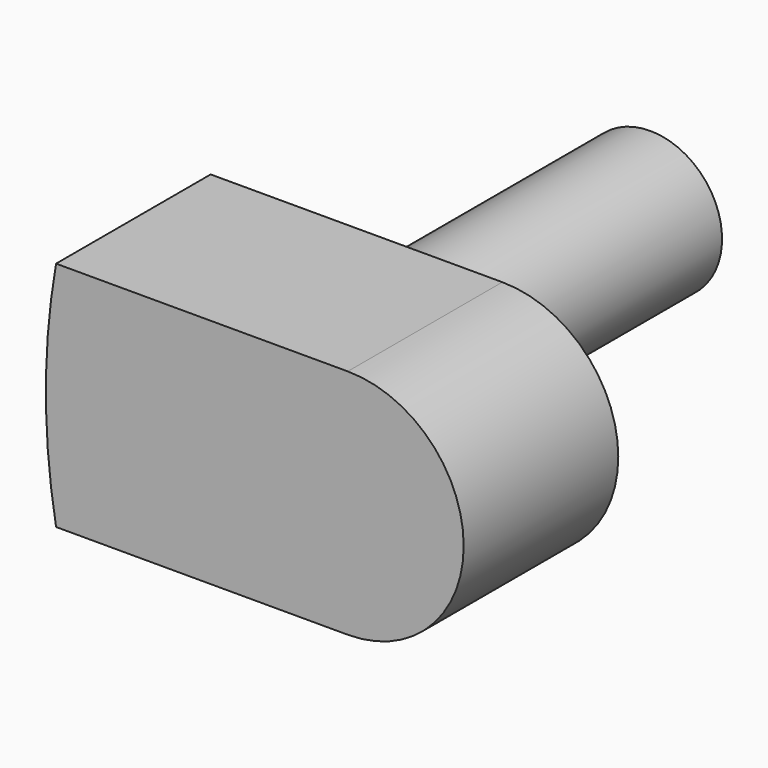
from build123d import *

# Parameters (mm, degrees)
F1_DEPTH = 8
F2_R     = 2.975
F3_DEPTH = 14


with BuildPart() as f1:
    # F0 (on Front) → F1 (new body)
    with BuildSketch(Plane.XZ):
        with BuildLine():
            Line((-15, 4.8), (-27.077851, 4.8))
            ThreePointArc((-27.077851, 4.8), (-27.5, 0), (-27.077851, -4.8))
            Line((-27.077851, -4.8), (-15, -4.8))
            ThreePointArc((-15, -4.8), (-10.2, 0), (-15, 4.8))
        make_face()
    extrude(amount=F1_DEPTH)

    # F2 (on face) → F3 (join)
    with BuildSketch(Plane(origin=(0, 0, 0), x_dir=(-1, 0, 0), z_dir=(0, 1, 0))):
        with Locations((20.077851, 0)):
            Circle(F2_R)
    extrude(amount=F3_DEPTH)


solid = f1.part
